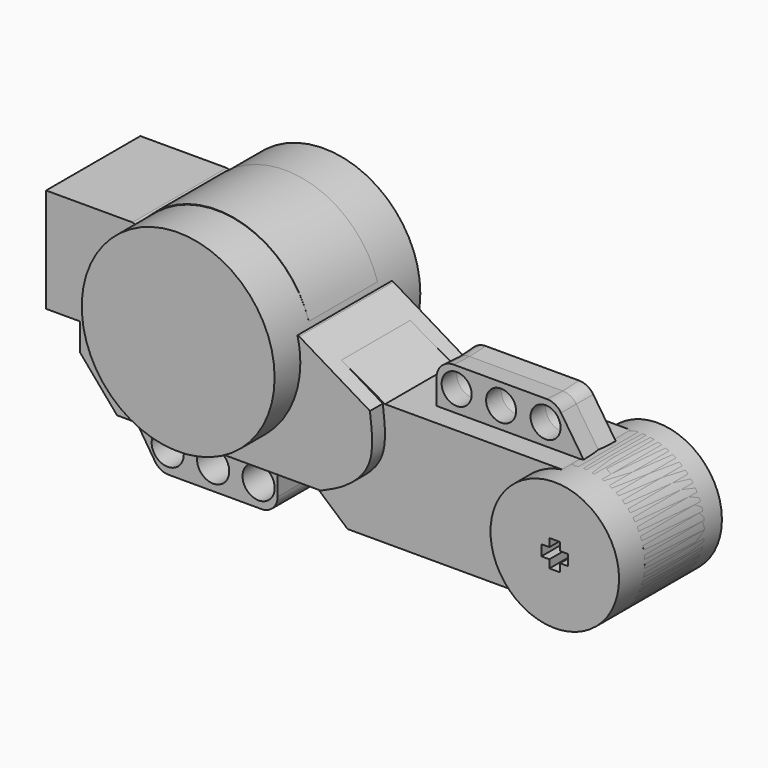
from build123d import *

# Parameters (mm, degrees)
F0_R           = 3
F1_DEPTH       = 8
F3_DEPTH       = 3
F3_DEPTH_BACK  = 19
F4_R           = 18
F5_DEPTH       = 9
F5_DEPTH_BACK  = 25
F6_R           = 12
F7_DEPTH       = 2
F6_W           = 2
F6_H           = 2
F8_DEPTH       = 25
F9_R           = 12
F10_DEPTH      = 6
F10_DEPTH_BACK = 18
F11_R          = 3
F12_DEPTH      = 3.75
F12_TAPER      = -3
F13_W          = 4
F13_H          = 8.492147766
F14_DEPTH      = 27.5
F16_DEPTH      = 8.5


with BuildPart() as f1:
    # F0 (on Front) → F1 (new body, symmetric)
    with BuildSketch(Plane.XZ):
        with BuildLine():
            ThreePointArc((28.8997220542, -32.5681600285), (40.3345506401, -31.6949174064), (45.8144613679, -21.6207705004))
            ThreePointArc((45.8144613679, -21.6207705004), (41.6086900019, -12.496626705), (31.9394613679, -9.7681600285))
            ThreePointArc((31.9394613679, -9.7681600285), (21.9197087438, -20.0349394839), (28.8997220542, -32.5681600285))
        make_face()
        with BuildLine():
            ThreePointArc((28.8997220542, -32.5681600285), (21.9197087438, -20.0349394839), (31.9394613679, -9.7681600285))
            Line((31.9394613679, -9.7681600285), (-1.0605386321, -9.7681600285))
            Line((-1.0605386321, -9.7681600285), (-14.9868156094, -1.8904186293))
            ThreePointArc((-14.9868156094, -1.8904186293), (-14.6260260287, -3.9443816015), (-14.5052223339, -6.0262892555))
            ThreePointArc((-14.5052223339, -6.0262892555), (-39.1849793142, -22.7409788034), (-45.5475386321, 6.3792734313))
            Line((-45.5475386321, 6.3792734313), (-61.9355386321, 6.3792734313))
            Line((-61.9355386321, 6.3792734313), (-61.9355386321, -12.6207265687))
            Line((-61.9355386321, -12.6207265687), (-55.7224982709, -12.6207265687))
            Line((-55.7224982709, -12.6207265687), (-55.7224982709, -17.6207265687))
            Line((-55.7224982709, -17.6207265687), (-48.6153830514, -26.0164941487))
            Line((-48.6153830514, -26.0164941487), (-21.1153830514, -26.0164941487))
            Line((-21.1153830514, -26.0164941487), (-15.6153830514, -26.0164941487))
            Line((-15.6153830514, -26.0164941487), (-8.0605386321, -32.5681600285))
            Line((-8.0605386321, -32.5681600285), (28.8997220542, -32.5681600285))
        make_face()
        with BuildLine():
            ThreePointArc((-14.5052223339, -6.0262892555), (-14.6260260287, -3.9443816015), (-14.9868156094, -1.8904186293))
            ThreePointArc((-14.9868156094, -1.8904186293), (-27.8035419885, 11.3488136774), (-45.5475386321, 6.3792734313))
            ThreePointArc((-45.5475386321, 6.3792734313), (-39.1849793142, -22.7409788034), (-14.5052223339, -6.0262892555))
        make_face()
        with BuildLine():
            Line((-21.1153830514, -31.5164941487), (-21.1153830514, -26.0164941487))
            Line((-21.1153830514, -26.0164941487), (-48.6153830514, -26.0164941487))
            Line((-48.6153830514, -26.0164941487), (-44.0020129232, -33.1462479831))
            ThreePointArc((-44.0020129232, -33.1462479831), (-42.9169583548, -34.1517608812), (-41.4833024518, -34.5164941487))
            Line((-41.4833024518, -34.5164941487), (-24.1153830514, -34.5164941487))
            ThreePointArc((-24.1153830514, -34.5164941487), (-21.9940627078, -33.6378144922), (-21.1153830514, -31.5164941487))
        make_face()
        with Locations((-41.6331169486, -30.2697786638)):
            Circle(F0_R, mode=Mode.SUBTRACT)
        with Locations((-33.15, -30.2662728124)):
            Circle(F0_R, mode=Mode.SUBTRACT)
        with Locations((-24.6668830514, -30.2627669611)):
            Circle(F0_R, mode=Mode.SUBTRACT)
        with BuildLine():
            ThreePointArc((-14.5052223339, -6.0262892555), (-14.6260260287, -3.9443816015), (-14.9868156094, -1.8904186293))
            ThreePointArc((-14.9868156094, -1.8904186293), (-27.8035419885, 11.3488136774), (-45.5475386321, 6.3792734313))
            ThreePointArc((-45.5475386321, 6.3792734313), (-39.1849793142, -22.7409788034), (-14.5052223339, -6.0262892555))
        make_face()
    extrude(amount=F1_DEPTH, both=True)

    # F2 (on face) → F3 (join, two sides)
    with BuildSketch(Plane.XZ.offset(8)) as f3_sk:
        with BuildLine():
            Line((-55.621036489, -17.7631583065), (-48.6849482846, -25.8834604174))
            Line((-48.6849482846, -25.8834604174), (-10.6849482846, -25.8834604174))
            add(Edge.make_bspline(
                [(-10.6849482846, -25.8834604174), (-9.1496588201, -25.2245842157), (-5.8605813582, -23.8208255042), (-0.3933036353, -18.6880027926), (-1.1117873909, -12.8907449361), (-1.4855521638, -9.8121019742)],
                knots=[0, 0, 0, 0, 0.2922430998, 0.6239745595, 1, 1, 1, 1], degree=3))
            Line((-1.4855521638, -9.8121019742), (-14.6811375002, -1.860915671))
            Line((-14.6811375002, -1.860915671), (-45.8085386321, 6.766917184))
            Line((-45.8085386321, 6.766917184), (-61.9355386321, 6.766917184))
            Line((-61.9355386321, 6.766917184), (-61.9355386321, -12.6879699528))
            Line((-61.9355386321, -12.6879699528), (-55.621036489, -12.6879699528))
            Line((-55.621036489, -12.6879699528), (-55.621036489, -17.7631583065))
        make_face()
    extrude(amount=F3_DEPTH)
    extrude(f3_sk.sketch, amount=-F3_DEPTH_BACK)

    # F4 (on face) → F5 (join, two sides)
    with BuildSketch(Plane.XZ.offset(8)) as f5_sk:
        with Locations((-32.4777513742, -6.1158728786)):
            Circle(F4_R)
    extrude(amount=F5_DEPTH)
    extrude(f5_sk.sketch, amount=-F5_DEPTH_BACK)

    # F6 (on face) → F7 (cut)
    with BuildSketch(Plane.XZ.offset(8)):
        with Locations((33.8144613679, -21.6207705004)):
            Circle(F6_R)
        Polygon((34.825936354, -24.1207705004), (33.8144613679, -24.1207705004), (32.825936354, -24.1207705004), (32.825936354, -22.6215814927), (31.3144613679, -22.6215814927), (31.3144613679, -21.6207705004), (31.3144613679, -20.6215814927), (32.825936354, -20.6215814927), (32.825936354, -19.1207705004), (33.8144613679, -19.1207705004), (34.825936354, -19.1207705004), (34.825936354, -20.6215814927), (36.3144613679, -20.6215814927), (36.3144613679, -21.6207705004), (36.3144613679, -22.6215814927), (34.825936354, -22.6215814927), align=None, mode=Mode.SUBTRACT)
    extrude(amount=-F7_DEPTH, mode=Mode.SUBTRACT)

    # F6 (on face) → F8 (cut)
    with BuildSketch(Plane.XZ.offset(8)):
        with Locations((33.825936354, -21.6215814927)):
            Rectangle(F6_W, F6_H)
        Polygon((31.3144613679, -22.6215814927), (32.825936354, -22.6215814927), (32.825936354, -20.6215814927), (31.3144613679, -20.6215814927), (31.3144613679, -21.6207705004), align=None)
        Polygon((32.825936354, -20.6215814927), (34.825936354, -20.6215814927), (34.825936354, -19.1207705004), (33.8144613679, -19.1207705004), (32.825936354, -19.1207705004), align=None)
        Polygon((34.825936354, -20.6215814927), (34.825936354, -22.6215814927), (36.3144613679, -22.6215814927), (36.3144613679, -21.6207705004), (36.3144613679, -20.6215814927), align=None)
        Polygon((32.825936354, -24.1207705004), (33.8144613679, -24.1207705004), (34.825936354, -24.1207705004), (34.825936354, -22.6215814927), (32.825936354, -22.6215814927), align=None)
    extrude(amount=-F8_DEPTH, mode=Mode.SUBTRACT)

    # F11 (on Front) → F12 (join, symmetric)
    with BuildSketch(Plane.XZ):
        with BuildLine():
            Line((5.3349900991, -9.6382200718), (32.3349900991, -9.6382200718))
            Line((32.3349900991, -9.6382200718), (28.2255897066, -3.4741194831))
            ThreePointArc((28.2255897066, -3.4741194831), (27.1450126002, -2.4931962755), (25.7294388236, -2.1382200718))
            Line((25.7294388236, -2.1382200718), (8.3349900991, -2.1382200718))
            ThreePointArc((8.3349900991, -2.1382200718), (6.2136697555, -3.0168997282), (5.3349900991, -5.1382200718))
            Line((5.3349900991, -5.1382200718), (5.3349900991, -9.6382200718))
        make_face()
        with Locations((8.8984900991, -5.7725948282)):
            Circle(F11_R, mode=Mode.SUBTRACT)
        with Locations((17.1984900991, -5.8)):
            Circle(F11_R, mode=Mode.SUBTRACT)
        with Locations((25.4984900991, -5.8274051718)):
            Circle(F11_R, mode=Mode.SUBTRACT)
    extrude(amount=F12_DEPTH, both=True, taper=F12_TAPER)

    # F13 (on face) → F14 (cut)
    with BuildSketch(Plane(origin=(-46.1339758723, 0, -29.8513961527), x_dir=(0, -1, 0), z_dir=(-0.8395701572, 0, -0.5432512782))):
        with Locations((0, 0.3216230168)):
            Rectangle(F13_W, F13_H)
    extrude(amount=-F14_DEPTH, mode=Mode.SUBTRACT)

    # F15 (on face) → F16 (cut)
    with BuildSketch(Plane(origin=(0, 0, -34.5164941487), x_dir=(1, 0, 0), z_dir=(0, 0, -1))):
        Polygon((-41.4833024518, -2), (-24.1153830514, -2), (-24.1153830514, 1.9836304207), (-41.4833024518, 1.8888619093), align=None)
    extrude(amount=-F16_DEPTH, mode=Mode.SUBTRACT)


with BuildPart() as f10:
    # F9 (on face) → F10 (new body, two sides)
    with BuildSketch(Plane.XZ.offset(6)) as f10_sk:
        with Locations((33.8144613679, -21.6207705004)):
            Circle(F9_R)
        Polygon((34.8144613679, -22.6207705004), (34.8144613679, -24.1207705004), (32.8144613679, -24.1207705004), (32.8144613679, -22.6207705004), (31.3144613679, -22.6207705004), (31.3144613679, -20.6207705004), (32.8144613679, -20.6207705004), (32.8144613679, -19.1207705004), (34.8144613679, -19.1207705004), (34.8144613679, -20.6207705004), (36.3144613679, -20.6207705004), (36.3144613679, -22.6207705004), align=None, mode=Mode.SUBTRACT)
    extrude(amount=F10_DEPTH)
    extrude(f10_sk.sketch, amount=-F10_DEPTH_BACK)


solid = Compound([f1.part, f10.part])
